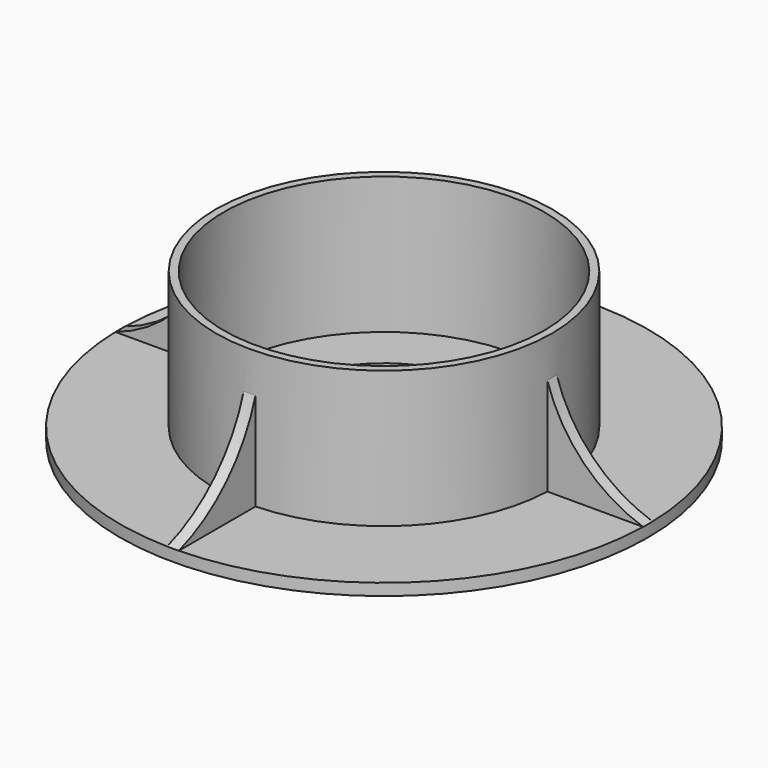
from build123d import *

# Parameters (mm, degrees)
F0_R      = 67.5
F1_DEPTH  = 3
F2_R      = 43
F2_R_2    = 41
F3_DEPTH  = 35
F4_R      = 27.5
F5_DEPTH  = 3
F7_DEPTH  = 25
F12_DEPTH = 25
F13_DEPTH = 25
F14_DEPTH = 25
F15_DEPTH = 25
F16_DEPTH = 25


with BuildPart() as f1:
    # F0 (on Top) → F1 (new body)
    with BuildSketch(Plane.XY):
        Circle(F0_R)
    extrude(amount=F1_DEPTH)

    # F2 (on face) → F3 (join)
    with BuildSketch(Plane.XY.offset(3)):
        Circle(F2_R)
        Circle(F2_R_2, mode=Mode.SUBTRACT)
    extrude(amount=F3_DEPTH)

    # F4 (on face) → F5 (cut)
    with BuildSketch(Plane.XY.offset(3)):
        Circle(F4_R)
    extrude(amount=-F5_DEPTH, mode=Mode.SUBTRACT)

    # F6 (on face) → F7 (join)
    with BuildSketch(Plane.XY.offset(3)):
        with BuildLine():
            ThreePointArc((-1.4872706737, -67.4836130179), (0.0127324705, -67.4999987991), (1.5127293263, -67.4830471303))
            Line((1.5127293263, -67.4830471303), (1.5127293263, -42.973383041))
            ThreePointArc((1.5127293263, -42.973383041), (0.0127370783, -42.9999981136), (-1.4872706737, -42.9742716744))
            Line((-1.4872706737, -42.9742716744), (-1.4872706737, -67.4836130179))
        make_face()
        with BuildLine():
            Line((67.4833312752, -1.5), (67.4833312752, 1.5))
            Line((67.4833312752, 1.5), (42.9738292453, 1.5))
            ThreePointArc((42.9738292453, 1.5), (42.9934568135, 0.7501141427), (43, 0))
            ThreePointArc((43, 0), (42.9934568135, -0.7501141427), (42.9738292453, -1.5))
            Line((42.9738292453, -1.5), (67.4833312752, -1.5))
        make_face()
        with BuildLine():
            Line((-42.9738292453, 1.5), (-67.4833312752, 1.5))
            Line((-67.4833312752, 1.5), (-67.4833312752, -1.5))
            Line((-67.4833312752, -1.5), (-42.9738292453, -1.5))
            ThreePointArc((-42.9738292453, -1.5), (-43, 0), (-42.9738292453, 1.5))
        make_face()
        with BuildLine():
            ThreePointArc((1.5, 67.4833312752), (0.7500463063, 67.4958326902), (0, 67.5))
            ThreePointArc((0, 67.5), (-0.7500463063, 67.4958326902), (-1.5, 67.4833312752))
            Line((-1.5, 67.4833312752), (-1.5, 42.9738292453))
            ThreePointArc((-1.5, 42.9738292453), (0, 43), (1.5, 42.9738292453))
            Line((1.5, 42.9738292453), (1.5, 67.4833312752))
        make_face()
    extrude(amount=F7_DEPTH)

    # F11 (on face) → F12 (cut)
    with BuildSketch(Plane.YZ.offset(1.5127293263)):
        with BuildLine():
            Line((-67.4830471303, 28), (-67.4830471303, 3))
            ThreePointArc((-67.4830471303, 3), (-52.1775932535, 12.5092113453), (-42.973383041, 28))
            Line((-42.973383041, 28), (-67.4830471303, 28))
        make_face()
    extrude(amount=-F12_DEPTH, mode=Mode.SUBTRACT)

    # F8 (on face) → F13 (cut)
    with BuildSketch(Plane(origin=(0, 1.5, 0), x_dir=(-1, 0, 0), z_dir=(0, 1, 0))):
        with BuildLine():
            Line((-67.4833312752, 28), (-67.4833312752, 3))
            ThreePointArc((-67.4833312752, 3), (-52.177969566, 12.5092420399), (-42.9738292453, 28))
            Line((-42.9738292453, 28), (-67.4833312752, 28))
        make_face()
    extrude(amount=-F13_DEPTH, mode=Mode.SUBTRACT)

    # F9 (on face) → F14 (cut)
    with BuildSketch(Plane(origin=(-1.5, 0, 0), x_dir=(0, -1, 0), z_dir=(-1, 0, 0))):
        with BuildLine():
            Line((-67.4833312752, 28), (-67.4833312752, 3))
            ThreePointArc((-67.4833312752, 3), (-52.177969566, 12.5092420399), (-42.9738292453, 28))
            Line((-42.9738292453, 28), (-67.4833312752, 28))
        make_face()
    extrude(amount=-F14_DEPTH, mode=Mode.SUBTRACT)

    # F10 (on face) → F15 (cut)
    with BuildSketch(Plane.XZ.offset(1.5)):
        with BuildLine():
            Line((-67.4833312752, 28), (-67.4833312752, 3))
            ThreePointArc((-67.4833312752, 3), (-52.177969566, 12.5092420399), (-42.9738292453, 28))
            Line((-42.9738292453, 28), (-67.4833312752, 28))
        make_face()
    extrude(amount=-F15_DEPTH, mode=Mode.SUBTRACT)

    # F16 (cut, through all): faces of the model
    f16_faces = [f1.faces().sort_by_distance(p)[0] for p in [
        (0, 67.4899988357, 28),
        (0.0003160568, -67.4898297441, 28),
        (0, 67.4899988357, 28),
        (0.0003160568, -67.4898297441, 28),
    ]]
    extrude(f16_faces, amount=-F16_DEPTH, mode=Mode.SUBTRACT)


solid = f1.part
